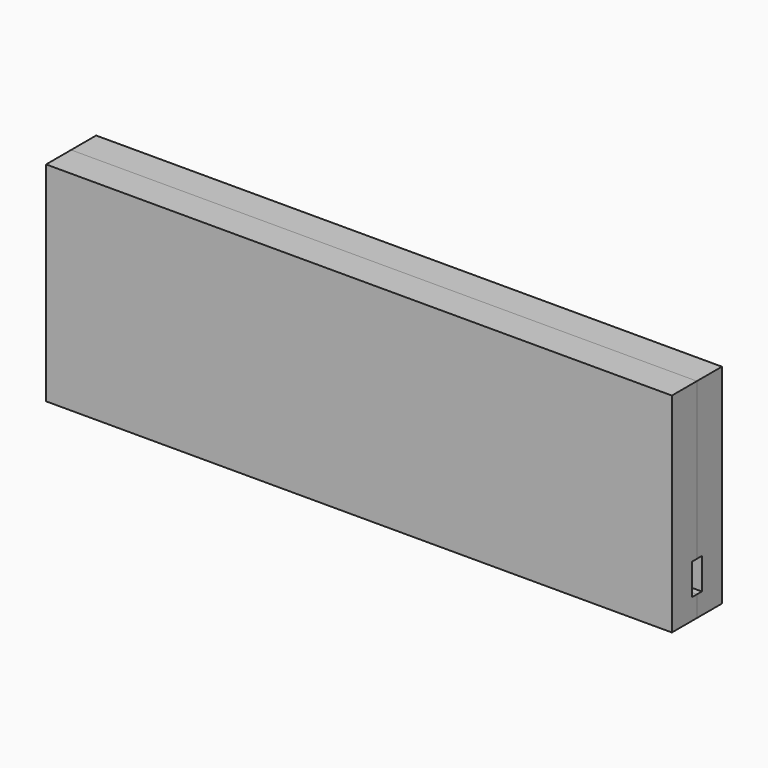
from build123d import *

# Parameters (mm, degrees)
F1_DEPTH = 150


with BuildPart() as f1:
    # F0 (on Right) → F1 (new body, symmetric)
    with BuildSketch(Plane.YZ):
        Polygon((-15, 0), (0, 0), (0, 10), (-3, 10), (-3, 25), (0, 25), (0, 100), (-15, 100), align=None)
    extrude(amount=F1_DEPTH, both=True)


with BuildPart() as f2_1:
    # F2: instance of F1
    add(f1.part.mirror(Plane.XZ))


solid = Compound([f1.part, f2_1.part])
